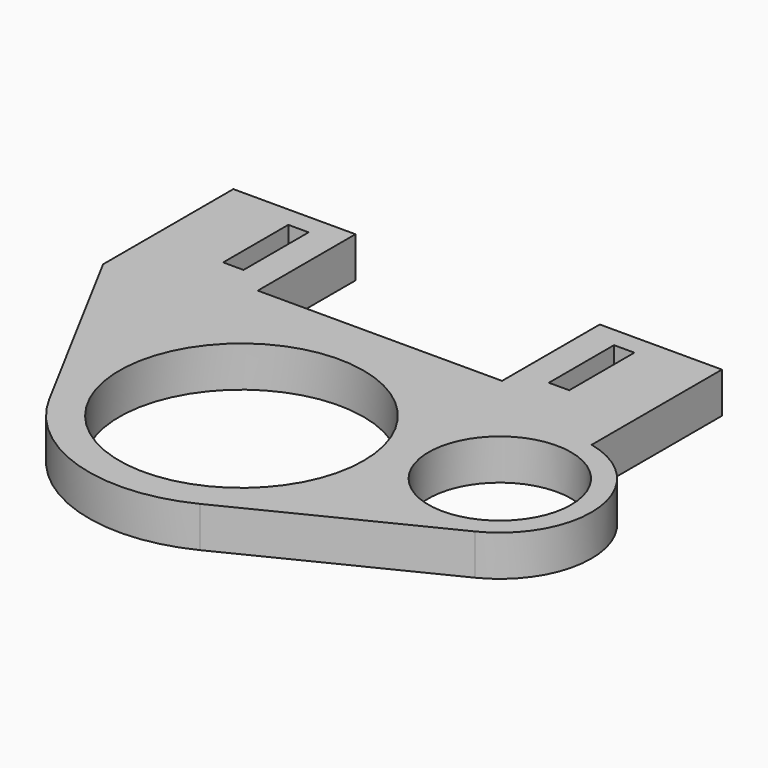
from build123d import *

# Parameters (mm, degrees)
F0_R     = 38.1
F0_R_2   = 22.225
F1_DEPTH = 12.7
F4_W     = 6.35
F4_H     = 25.4
F5_DEPTH = 12.7
F6_W     = 6.35
F6_H     = 25.4
F7_DEPTH = 12.7


with BuildPart() as f1:
    # F0 (on Top) → F1 (new body)
    with BuildSketch(Plane.XY):
        with BuildLine():
            Line((-76.2, 41.275), (-41.964057, -22.520182))
            ThreePointArc((-41.964057, -22.520182), (-14.468928, -45.373899), (21.180573, -42.655878))
            Line((21.180573, -42.655878), (82.558344, -12.179039))
            ThreePointArc((82.558344, -12.179039), (98.224966, 16.789683), (76.2, 41.275))
            Line((76.2, 41.275), (76.2, 92.075))
            Line((76.2, 92.075), (38.1, 92.075))
            Line((38.1, 92.075), (38.1, 53.975))
            Line((38.1, 53.975), (-38.1, 53.975))
            Line((-38.1, 53.975), (-38.1, 92.075))
            Line((-38.1, 92.075), (-76.2, 92.075))
            Line((-76.2, 92.075), (-76.2, 41.275))
        make_face()
        Circle(F0_R, mode=Mode.SUBTRACT)
        with Locations((69.85, 13.414488)):
            Circle(F0_R_2, mode=Mode.SUBTRACT)
    extrude(amount=F1_DEPTH)

    # F4 (on face) → F5 (cut, through all)
    with BuildSketch(Plane.XY.offset(12.7)):
        with Locations((-50.8, 73.025)):
            Rectangle(F4_W, F4_H)
    extrude(amount=-F5_DEPTH, mode=Mode.SUBTRACT)

    # F6 (on face) → F7 (cut, through all)
    with BuildSketch(Plane.XY.offset(12.7)):
        with Locations((50.8, 73.025)):
            Rectangle(F6_W, F6_H)
    extrude(amount=-F7_DEPTH, mode=Mode.SUBTRACT)


solid = f1.part
